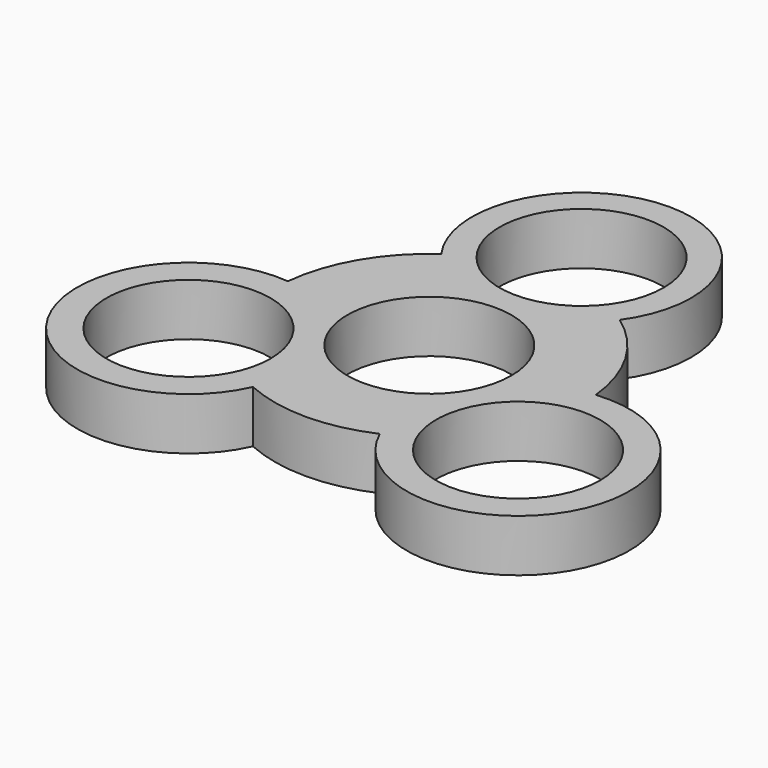
from build123d import *

# Parameters (mm, degrees)
F0_R     = 10.9855
F1_DEPTH = 7


with BuildPart() as f1:
    # F0 (on Top) → F1 (new body)
    with BuildSketch(Plane.XY):
        with BuildLine():
            ThreePointArc((11.941527, 16.91951), (0, 40.158684), (-11.941527, 16.91951))
            ThreePointArc((-11.941527, 16.91951), (-17.883724, 10.442331), (-20.604058, 2.083903))
            ThreePointArc((-20.604058, 2.083903), (-34.954177, -20.180804), (-8.497317, -18.885589))
            ThreePointArc((-8.497317, -18.885589), (-0.009965, -20.709171), (8.479138, -18.893758))
            ThreePointArc((8.479138, -18.893758), (34.971437, -20.190768), (20.602043, 2.10373))
            ThreePointArc((20.602043, 2.10373), (17.878697, 10.450935), (11.941527, 16.91951))
        make_face()
        with Locations((-22.058533, -12.7355)):
            Circle(F0_R, mode=Mode.SUBTRACT)
        Circle(F0_R, mode=Mode.SUBTRACT)
        with Locations((22.058533, -12.7355)):
            Circle(F0_R, mode=Mode.SUBTRACT)
        with Locations((0, 25.471)):
            Circle(F0_R, mode=Mode.SUBTRACT)
    extrude(amount=F1_DEPTH)


solid = f1.part
